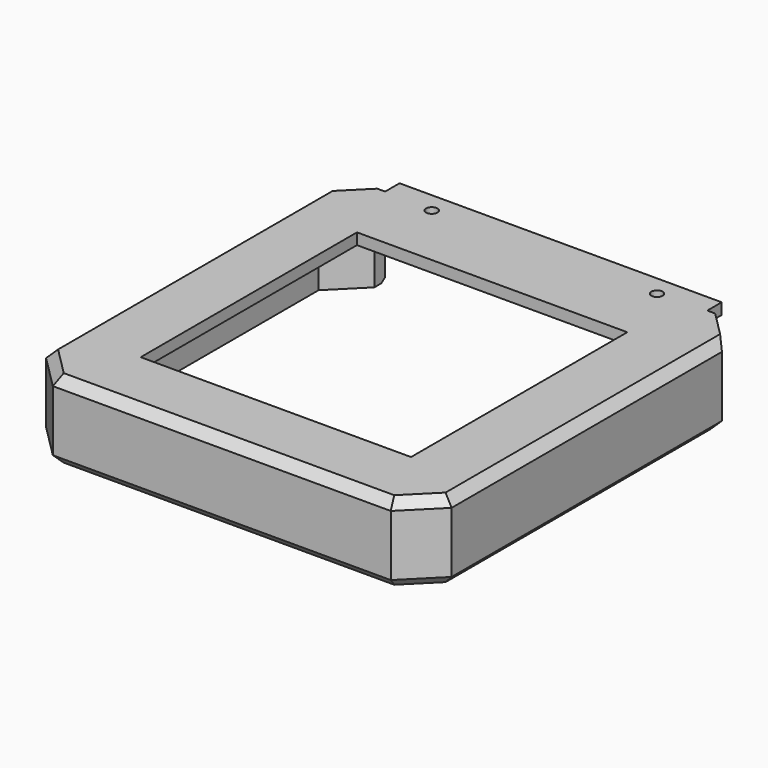
from build123d import *

# Parameters (mm, degrees)
SKETCH_W        = 180
SKETCH_H        = 180
SKETCH_W_2      = 170.5
SKETCH_H_2      = 170.5
PAD_DEPTH       = 30
CHAMFER_SIZE    = 15
SKETCH001_W     = 120
SKETCH001_H     = 120
PAD001_DEPTH    = 5
SKETCH002_W     = 143
SKETCH002_H     = 30
POCKET_DEPTH    = 10
SKETCH003_R     = 2.5
POCKET001_DEPTH = 35.001
CHAMFER001_SIZE = 4
CHAMFER002_SIZE = 4


with BuildPart() as part:
    # Sketch → Pad (new body)
    with BuildSketch(Plane.XY):
        Rectangle(SKETCH_W, SKETCH_H)
        Rectangle(SKETCH_W_2, SKETCH_H_2, mode=Mode.SUBTRACT)
    extrude(amount=PAD_DEPTH)

    # Chamfer
    chamfer_edges = [part.edges().sort_by_distance(p)[0] for p in [
        (-90, -90, 15),
        (-85.25, -85.25, 15),
        (-85.25, 85.25, 15),
        (-90, 90, 15),
        (85.25, 85.25, 15),
        (90, 90, 15),
        (85.25, -85.25, 15),
        (90, -90, 15),
    ]]
    chamfer(chamfer_edges, length=CHAMFER_SIZE)

    # Sketch001 (on Face5 of Chamfer) → Pad001 (join)
    with BuildSketch(Plane.XY.offset(30)):
        Polygon((-90, -75), (-90, 75), (-75, 90), (-71.5, 90), (-71.5, 98), (71.5, 98), (71.5, 90), (75, 90), (90, 75), (90, -75), (75, -90), (-75, -90), align=None)
        Rectangle(SKETCH001_W, SKETCH001_H, mode=Mode.SUBTRACT)
    extrude(amount=PAD001_DEPTH)

    # Sketch002 (on Face24 of Pad001) → Pocket (cut)
    with BuildSketch(Plane(origin=(0, 90, 0), x_dir=(-1, 0, 0), z_dir=(0, 1, 0))):
        with Locations((0, 15)):
            Rectangle(SKETCH002_W, SKETCH002_H)
    extrude(amount=-POCKET_DEPTH, mode=Mode.SUBTRACT)

    # Sketch003 (on Face20 of Pocket) → Pocket001 (cut, through all)
    with BuildSketch(Plane.XY.offset(35)):
        with Locations((-50, 89)):
            Circle(SKETCH003_R)
        with Locations((50, 89)):
            Circle(SKETCH003_R)
    extrude(amount=-POCKET001_DEPTH, mode=Mode.SUBTRACT)

    # Chamfer001
    chamfer001_edges = [part.edges().sort_by_distance(p)[0] for p in [
        (90, 0, 35),
        (82.5, -82.5, 35),
        (0, -90, 35),
        (-82.5, -82.5, 35),
        (-90, 0, 35),
    ]]
    chamfer(chamfer001_edges, length=CHAMFER001_SIZE)

    # Chamfer002
    chamfer002_edges = [part.edges().sort_by_distance(p)[0] for p in [
        (82.5, 82.5, 0),
        (90, 0, 0),
        (82.5, -82.5, 0),
        (0, -90, 0),
        (-82.5, -82.5, 0),
        (-90, 0, 0),
        (-82.5, 82.5, 0),
    ]]
    chamfer(chamfer002_edges, length=CHAMFER002_SIZE)


solid = part.part
